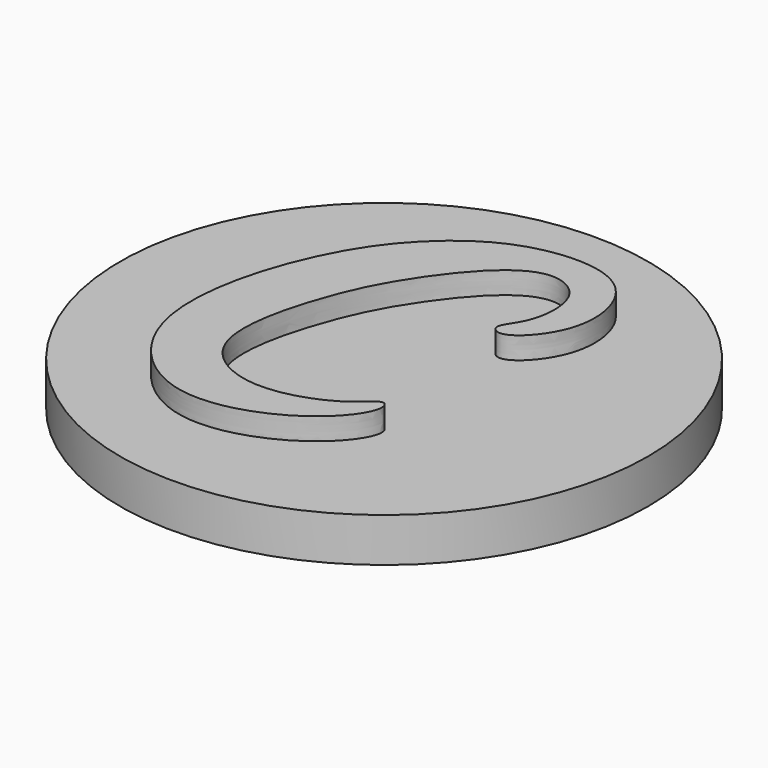
from build123d import *

# Parameters (mm, degrees)
F2_DEPTH = 7.5
F1_R     = 30
F3_DEPTH = 5


with BuildPart() as f2:
    # F1 (on Top) → F2 (new body)
    with BuildSketch(Plane.XY):
        with BuildLine():
            add(Edge.make_bspline(
                [(-6.88872733, 17.4432786471), (-9.4844480552, 15.278623458), (-14.7614708002, 8.8909682781), (-19.9870318603, -10.473087768), (-8.122774868, -22.605305376), (5.5423415952, -17.248948771), (9.201065804, -11.5207750308), (8.0642944823, -9.7619596454), (5.6811993751, -12.7967137108), (-3.0337874303, -16.1050767999), (-12.1057409422, -11.0392198786), (-8.9777364807, 2.0070621096), (-5.3212650692, 9.5646788976), (0.5666622059, 17.040706103), (5.4219068423, 18.6086296547), (9.2611599318, 15.9171858903), (8.8785946209, 9.8666607572), (6.3238318569, 7.362199478), (8.5197374938, 5.7201207691), (13.9977357581, 11.6112520809), (11.4202387335, 21.9048288711), (0.4553776571, 22.2045037686), (-4.6074056208, 19.3457463617), (-6.88872733, 17.4432786471)],
                knots=[0, 0, 0, 0, 0.0598611064, 0.1365265787, 0.2018190561, 0.2662880397, 0.3094174321, 0.3270115001, 0.3574513371, 0.4109526509, 0.4617818326, 0.5226194887, 0.5763708755, 0.629913754, 0.6674683752, 0.7021091233, 0.744314552, 0.7748004714, 0.795286831, 0.8409699502, 0.8934201759, 0.9473893936, 1, 1, 1, 1], degree=3))
        make_face()
    extrude(amount=F2_DEPTH)

    # F1 (on Top) → F3 (join)
    with BuildSketch(Plane.XY):
        Circle(F1_R)
        with BuildLine():
            add(Edge.make_bspline(
                [(-6.88872733, 17.4432786471), (-9.4844480552, 15.278623458), (-14.7614708002, 8.8909682781), (-19.9870318603, -10.473087768), (-8.122774868, -22.605305376), (5.5423415952, -17.248948771), (9.201065804, -11.5207750308), (8.0642944823, -9.7619596454), (5.6811993751, -12.7967137108), (-3.0337874303, -16.1050767999), (-12.1057409422, -11.0392198786), (-8.9777364807, 2.0070621096), (-5.3212650692, 9.5646788976), (0.5666622059, 17.040706103), (5.4219068423, 18.6086296547), (9.2611599318, 15.9171858903), (8.8785946209, 9.8666607572), (6.3238318569, 7.362199478), (8.5197374938, 5.7201207691), (13.9977357581, 11.6112520809), (11.4202387335, 21.9048288711), (0.4553776571, 22.2045037686), (-4.6074056208, 19.3457463617), (-6.88872733, 17.4432786471)],
                knots=[0, 0, 0, 0, 0.0598611064, 0.1365265787, 0.2018190561, 0.2662880397, 0.3094174321, 0.3270115001, 0.3574513371, 0.4109526509, 0.4617818326, 0.5226194887, 0.5763708755, 0.629913754, 0.6674683752, 0.7021091233, 0.744314552, 0.7748004714, 0.795286831, 0.8409699502, 0.8934201759, 0.9473893936, 1, 1, 1, 1], degree=3))
        make_face(mode=Mode.SUBTRACT)
    extrude(amount=F3_DEPTH)


solid = f2.part
